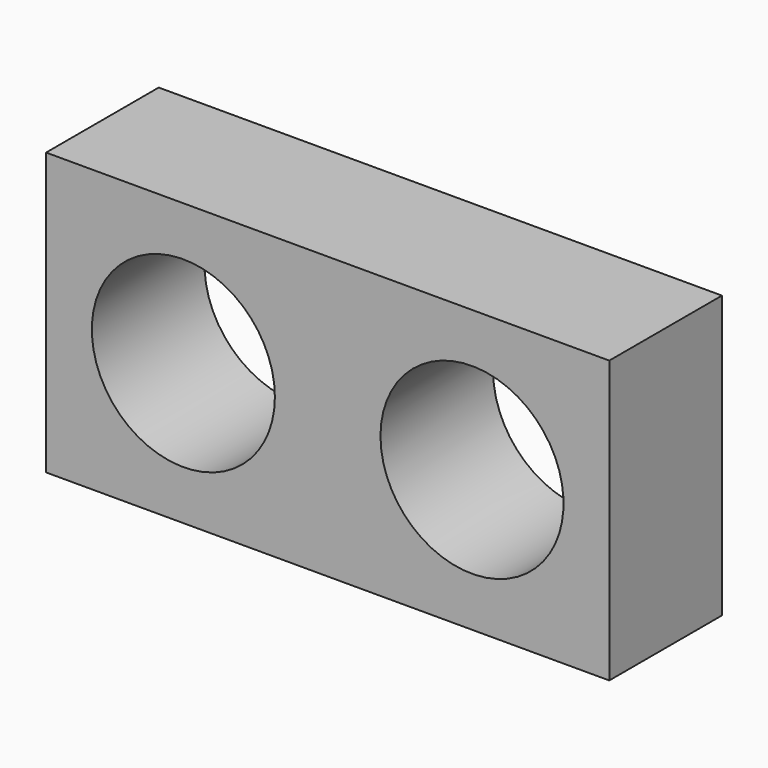
from build123d import *

# Parameters (mm, degrees)
F0_W     = 50.8
F0_H     = 50.8
F1_DEPTH = 25.4
F2_R     = 8.255
F3_DEPTH = 25.4
F4_DEPTH = 12.7
F5_DEPTH = 12.7
F6_DEPTH = 12.7


with BuildPart() as f1:
    # F0 (on Front) → F1 (new body)
    with BuildSketch(Plane.XZ):
        Rectangle(F0_W, F0_H)
    extrude(amount=F1_DEPTH)

    # F2 (on face) → F3 (cut)
    with BuildSketch(Plane.XZ.offset(25.4)):
        with Locations((-13.0175, 0)):
            Circle(F2_R)
        with BuildLine():
            ThreePointArc((21.2725, 0), (13.0175, 8.255), (4.7625, 0))
            ThreePointArc((4.7625, 0), (13.0175, -8.255), (21.2725, 0))
        make_face()
    extrude(amount=-F3_DEPTH, mode=Mode.SUBTRACT)

    # F4 (cut): a face of the model
    f4_faces = [f1.faces().sort_by_distance(p)[0] for p in [
        (0, -25.4, 0),
    ]]
    extrude(f4_faces, amount=-F4_DEPTH, mode=Mode.SUBTRACT)

    # F5 (cut): a face of the model
    f5_faces = [f1.faces().sort_by_distance(p)[0] for p in [
        (0, -6.35, 25.4),
    ]]
    extrude(f5_faces, amount=-F5_DEPTH, mode=Mode.SUBTRACT)

    # F6 (cut): a face of the model
    f6_faces = [f1.faces().sort_by_distance(p)[0] for p in [
        (0, -6.35, -25.4),
    ]]
    extrude(f6_faces, amount=-F6_DEPTH, mode=Mode.SUBTRACT)


solid = f1.part
